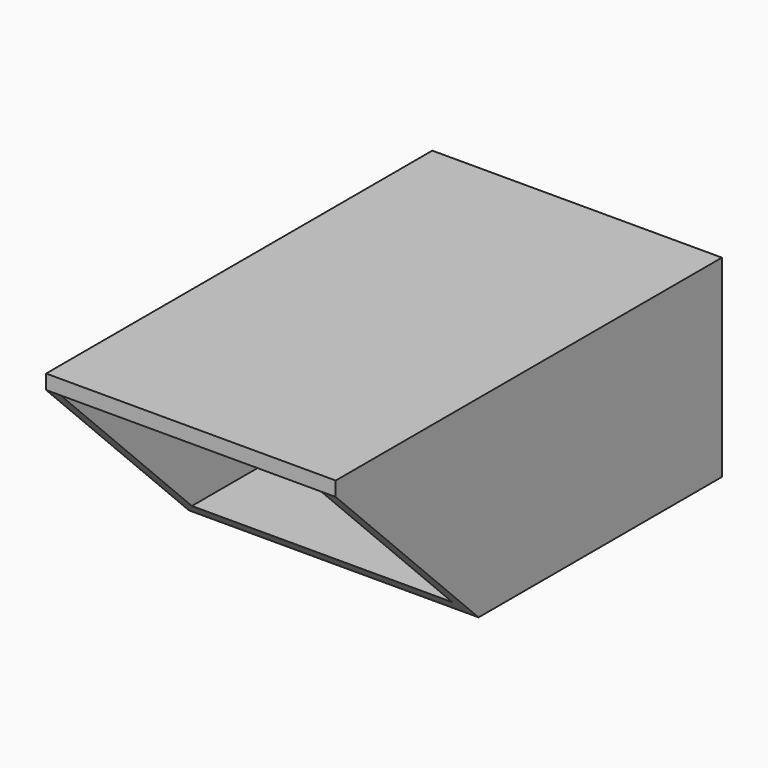
from build123d import *

# Parameters (mm, degrees)
F0_W     = 60
F0_H     = 100
F1_DEPTH = 40
F2_W     = 54
F2_H     = 34
F3_DEPTH = 141
F5_DEPTH = 60


with BuildPart() as f1:
    # F0 (on Top) → F1 (new body)
    with BuildSketch(Plane.XY):
        Rectangle(F0_W, F0_H)
        Rectangle(F0_W, F0_H)
    extrude(amount=F1_DEPTH)

    # F2 (on face) → F3 (cut)
    with BuildSketch(Plane.XZ.offset(50)):
        with Locations((0, 20)):
            Rectangle(F2_W, F2_H)
    extrude(amount=-F3_DEPTH, mode=Mode.SUBTRACT)

    # F4 (on face) → F5 (cut)
    with BuildSketch(Plane(origin=(-30, 0, 0), x_dir=(0, -1, 0), z_dir=(-1, 0, 0))):
        Polygon((50, 37), (13, 0), (50, 0), align=None)
    extrude(amount=-F5_DEPTH, mode=Mode.SUBTRACT)


solid = f1.part
